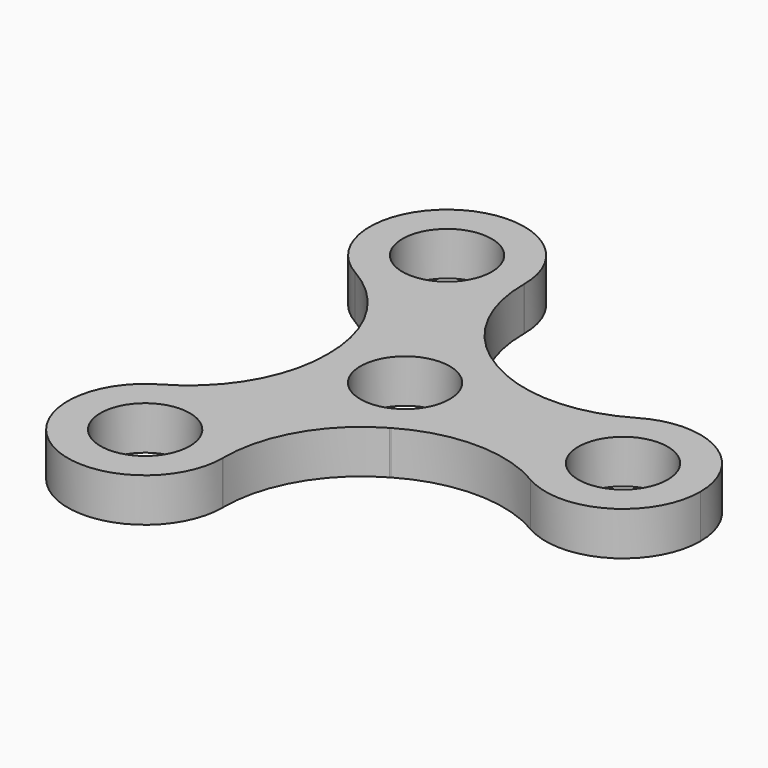
from build123d import *

# Parameters (mm, degrees)
F0_R     = 4.1
F1_DEPTH = 4


with BuildPart() as f1:
    # F0 (on Top) → F1 (new body)
    with BuildSketch(Plane.XY):
        with BuildLine():
            ThreePointArc((-2.900234, -17.262819), (-1.209479, -10.848713), (3.499923, -6.177422))
            ThreePointArc((3.499923, -6.177422), (-3.55, -6.14878), (-7.099766, -0.057689))
            ThreePointArc((-7.099766, -0.057689), (-8.790521, -6.471795), (-13.499923, -11.143086))
            ThreePointArc((-13.499923, -11.143086), (-6.45, -11.171728), (-2.900234, -17.262819))
        make_face()
        with BuildLine():
            ThreePointArc((-2.9, -17.320508), (-2.900059, -17.291663), (-2.900234, -17.262819))
            ThreePointArc((-2.900234, -17.262819), (-6.45, -11.171728), (-13.499923, -11.143086))
            ThreePointArc((-13.499923, -11.143086), (-13.574951, -23.454815), (-2.9, -17.320508))
        make_face()
        with Locations((-10, -17.320508)):
            Circle(F0_R, mode=Mode.SUBTRACT)
        with BuildLine():
            ThreePointArc((3.599843, -6.119733), (6.163152, -3.52499), (7.1, 0))
            ThreePointArc((7.1, 0), (6.163152, 3.52499), (3.599843, 6.119733))
            ThreePointArc((3.599843, 6.119733), (3.55, 6.14878), (3.499923, 6.177422))
            ThreePointArc((3.499923, 6.177422), (-3.55, 6.14878), (-7.099766, 0.057689))
            ThreePointArc((-7.099766, 0.057689), (-7.1, 0), (-7.099766, -0.057689))
            ThreePointArc((-7.099766, -0.057689), (-3.55, -6.14878), (3.499923, -6.177422))
            ThreePointArc((3.499923, -6.177422), (3.55, -6.14878), (3.599843, -6.119733))
        make_face()
        Circle(F0_R, mode=Mode.SUBTRACT)
        with BuildLine():
            ThreePointArc((3.599843, 6.119733), (6.163152, 3.52499), (7.1, 0))
            ThreePointArc((7.1, 0), (6.163152, -3.52499), (3.599843, -6.119733))
            ThreePointArc((3.599843, -6.119733), (10, -4.376917), (16.400157, -6.119733))
            ThreePointArc((16.400157, -6.119733), (12.9, 0), (16.400157, 6.119733))
            ThreePointArc((16.400157, 6.119733), (10, 4.376917), (3.599843, 6.119733))
        make_face()
        with BuildLine():
            ThreePointArc((27.1, 0), (23.52499, 6.163152), (16.400157, 6.119733))
            ThreePointArc((16.400157, 6.119733), (12.9, 0), (16.400157, -6.119733))
            ThreePointArc((16.400157, -6.119733), (23.52499, -6.163152), (27.1, 0))
        make_face()
        with Locations((20, 0)):
            Circle(F0_R, mode=Mode.SUBTRACT)
        with BuildLine():
            ThreePointArc((-7.099766, 0.057689), (-3.55, 6.14878), (3.499923, 6.177422))
            ThreePointArc((3.499923, 6.177422), (-1.209479, 10.848713), (-2.900234, 17.262819))
            ThreePointArc((-2.900234, 17.262819), (-6.45, 11.171728), (-13.499923, 11.143086))
            ThreePointArc((-13.499923, 11.143086), (-8.790521, 6.471795), (-7.099766, 0.057689))
        make_face()
        with BuildLine():
            ThreePointArc((-13.499923, 11.143086), (-6.45, 11.171728), (-2.900234, 17.262819))
            ThreePointArc((-2.900234, 17.262819), (-2.900059, 17.291663), (-2.9, 17.320508))
            ThreePointArc((-2.9, 17.320508), (-13.574951, 23.454815), (-13.499923, 11.143086))
        make_face()
        with Locations((-10, 17.320508)):
            Circle(F0_R, mode=Mode.SUBTRACT)
    extrude(amount=F1_DEPTH)


solid = f1.part
